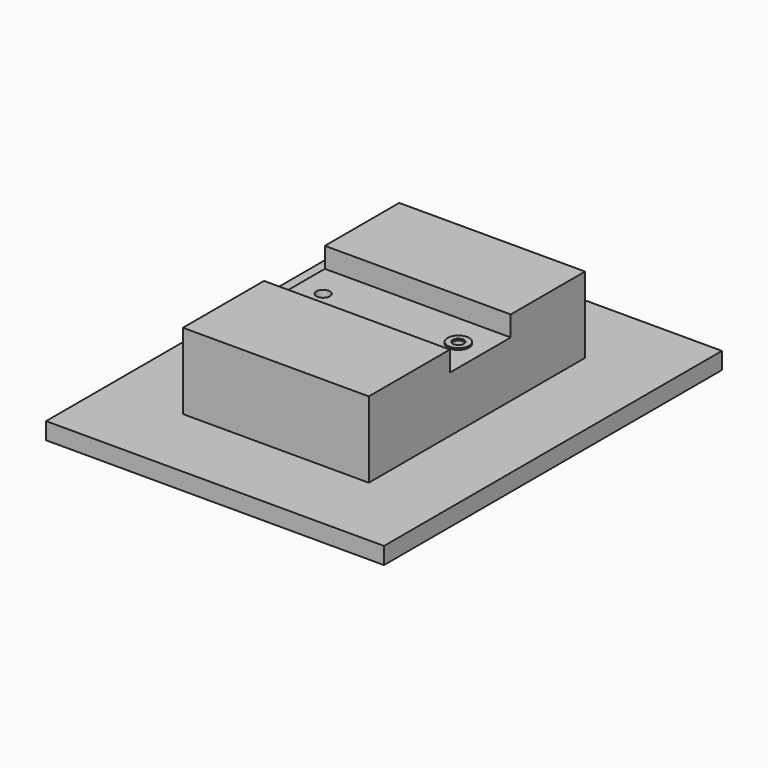
from build123d import *

# Parameters (mm, degrees)
F1_DEPTH  = 55
F2_R      = 4
F3_DEPTH  = 33.001
F4_W      = 200
F4_H      = 250
F5_DEPTH  = 10
F6_R      = 3.4
F8_DEPTH  = 10
F7_R      = 5.625
F9_DEPTH  = 6
F10_R     = 6.325
F10_R_2   = 3.25
F11_DEPTH = 1


with BuildPart() as f1:
    # F0 (on Right) → F1 (new body, symmetric)
    with BuildSketch(Plane.YZ):
        Polygon((-20, 45), (-80, 45), (-80, 0), (80, 0), (80, 45), (25, 45), (25, 33), (-20, 33), align=None)
    extrude(amount=F1_DEPTH, both=True)

    # F2 (on face) → F3 (cut, through all)
    with BuildSketch(Plane.XY.offset(33)):
        with Locations((-40, 5)):
            Circle(F2_R)
        with Locations((40, 5)):
            Circle(F2_R)
    extrude(amount=-F3_DEPTH, mode=Mode.SUBTRACT)


with BuildPart() as f5:
    # F4 (on Top) → F5 (new body)
    with BuildSketch(Plane.XY):
        Rectangle(F4_W, F4_H)
    extrude(amount=-F5_DEPTH)

    # F6 (on face) → F8 (cut, through all)
    with BuildSketch(Plane(origin=(0, 0, -10), x_dir=(1, 0, 0), z_dir=(0, 0, -1))):
        with Locations((-40, -5)):
            Circle(F6_R)
        with Locations((40, -5)):
            Circle(F6_R)
    extrude(amount=-F8_DEPTH, mode=Mode.SUBTRACT)

    # F7 (on face) → F9 (cut)
    with BuildSketch(Plane(origin=(0, 0, -10), x_dir=(1, 0, 0), z_dir=(0, 0, -1))):
        with Locations((-40, -5)):
            Circle(F7_R)
        with Locations((40, -5)):
            Circle(F7_R)
    extrude(amount=-F9_DEPTH, mode=Mode.SUBTRACT)


with BuildPart() as f11:
    # F10 (on face) → F11 (new body)
    with BuildSketch(Plane.XY.offset(33)):
        with Locations((40, 5)):
            Circle(F10_R)
        with Locations((40, 5)):
            Circle(F10_R_2, mode=Mode.SUBTRACT)
    extrude(amount=F11_DEPTH)


solid = Compound([f1.part, f5.part, f11.part])
